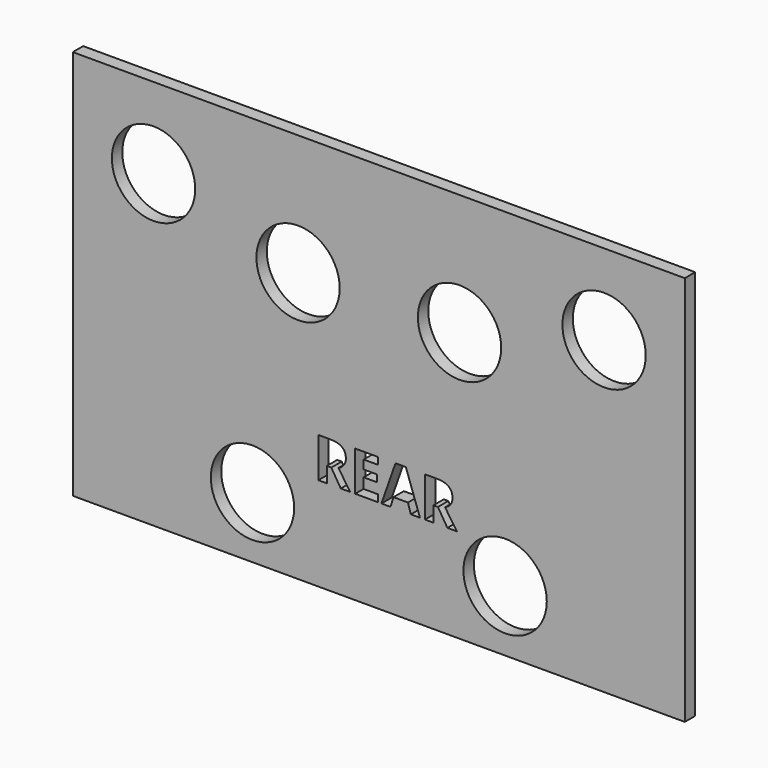
from build123d import *

# Parameters (mm, degrees)
F0_W     = 470
F0_H     = 300
F0_R     = 32
F1_DEPTH = 10


with BuildPart() as f1:
    # F0 (on Front) → F1 (new body)
    with BuildSketch(Plane.XZ):
        with Locations((-1.5009945631, -0.4757732153)):
            Rectangle(F0_W, F0_H)
        with Locations((-98.5009945631, -103.4757732153)):
            Circle(F0_R, mode=Mode.SUBTRACT)
        with BuildLine():
            Line((-37.995199567, -66.8219446921), (-41.4451233874, -66.8219446921))
            Line((-41.4451233874, -66.8219446921), (-41.4451233874, -78.5650834441))
            Line((-41.4451233874, -78.5650834441), (-47.9363392749, -78.5650834441))
            Line((-47.9363392749, -78.5650834441), (-47.9363392749, -47.9578952193))
            Line((-47.9363392749, -47.9578952193), (-39.0201283913, -47.9578952193))
            add(Edge.make_bspline(
                [(-39.0201283913, -47.9578952193), (-32.7767711084, -47.9578952193), (-29.7857206505, -50.2288159478)],
                knots=[0, 0, 0, 1, 1, 1], degree=2))
            add(Edge.make_bspline(
                [(-29.7857206505, -50.2288159478), (-26.7946701925, -52.4997366762), (-26.7946701925, -57.1286635887)],
                knots=[0, 0, 0, 1, 1, 1], degree=2))
            add(Edge.make_bspline(
                [(-26.7946701925, -57.1286635887), (-26.7946701925, -59.8283127143), (-28.2784723794, -61.9317614126)],
                knots=[0, 0, 0, 1, 1, 1], degree=2))
            add(Edge.make_bspline(
                [(-28.2784723794, -61.9317614126), (-29.7622745663, -64.0352101109), (-32.4887192166, -65.2276109653)],
                knots=[0, 0, 0, 1, 1, 1], degree=2))
            add(Edge.make_bspline(
                [(-32.4887192166, -65.2276109653), (-25.5754738133, -75.550586902), (-23.4854228774, -78.5650834441)],
                knots=[0, 0, 0, 1, 1, 1], degree=2))
            Line((-23.4854228774, -78.5650834441), (-30.6867201725, -78.5650834441))
            Line((-30.6867201725, -78.5650834441), (-37.995199567, -66.8219446921))
        make_face(mode=Mode.SUBTRACT)
        Polygon((-2.0088097347, -73.2059784803), (-2.0088097347, -78.5650834441), (-19.6335661846, -78.5650834441), (-19.6335661846, -47.9578952193), (-2.0088097347, -47.9578952193), (-2.0088097347, -53.276806896), (-13.1423502971, -53.276806896), (-13.1423502971, -59.9957847444), (-2.7791810733, -59.9957847444), (-2.7791810733, -65.314696421), (-13.1423502971, -65.314696421), (-13.1423502971, -73.2059784803), align=None, mode=Mode.SUBTRACT)
        with Locations((95.4990054369, -103.4757732153)):
            Circle(F0_R, mode=Mode.SUBTRACT)
        Polygon((30.1056267611, -78.5650834441), (23.1119947833, -78.5650834441), (20.8946651045, -71.2767006933), (9.7343290173, -71.2767006933), (7.5169993385, -78.5650834441), (0.5233673607, -78.5650834441), (11.328662744, -47.8306164765), (19.2601380905, -47.8306164765), align=None, mode=Mode.SUBTRACT)
        with BuildLine():
            Line((43.8986231618, -66.8219446921), (40.4486993413, -66.8219446921))
            Line((40.4486993413, -66.8219446921), (40.4486993413, -78.5650834441))
            Line((40.4486993413, -78.5650834441), (33.9574834539, -78.5650834441))
            Line((33.9574834539, -78.5650834441), (33.9574834539, -47.9578952193))
            Line((33.9574834539, -47.9578952193), (42.8736943375, -47.9578952193))
            add(Edge.make_bspline(
                [(42.8736943375, -47.9578952193), (49.1170516204, -47.9578952193), (52.1081020783, -50.2288159478)],
                knots=[0, 0, 0, 1, 1, 1], degree=2))
            add(Edge.make_bspline(
                [(52.1081020783, -50.2288159478), (55.0991525363, -52.4997366762), (55.0991525363, -57.1286635887)],
                knots=[0, 0, 0, 1, 1, 1], degree=2))
            add(Edge.make_bspline(
                [(55.0991525363, -57.1286635887), (55.0991525363, -59.8283127143), (53.6153503494, -61.9317614126)],
                knots=[0, 0, 0, 1, 1, 1], degree=2))
            add(Edge.make_bspline(
                [(53.6153503494, -61.9317614126), (52.1315481625, -64.0352101109), (49.4051035122, -65.2276109653)],
                knots=[0, 0, 0, 1, 1, 1], degree=2))
            add(Edge.make_bspline(
                [(49.4051035122, -65.2276109653), (56.3183489155, -75.550586902), (58.4083998514, -78.5650834441)],
                knots=[0, 0, 0, 1, 1, 1], degree=2))
            Line((58.4083998514, -78.5650834441), (51.2071025563, -78.5650834441))
            Line((51.2071025563, -78.5650834441), (43.8986231618, -66.8219446921))
        make_face(mode=Mode.SUBTRACT)
        with Locations((-63.5009945631, 56.5242267847)):
            Circle(F0_R, mode=Mode.SUBTRACT)
        with Locations((-174.5009945631, 87.5242267847)):
            Circle(F0_R, mode=Mode.SUBTRACT)
        with Locations((60.4990054369, 56.5242267847)):
            Circle(F0_R, mode=Mode.SUBTRACT)
        with Locations((171.4990054369, 87.5242267847)):
            Circle(F0_R, mode=Mode.SUBTRACT)
    extrude(amount=F1_DEPTH)


solid = f1.part
